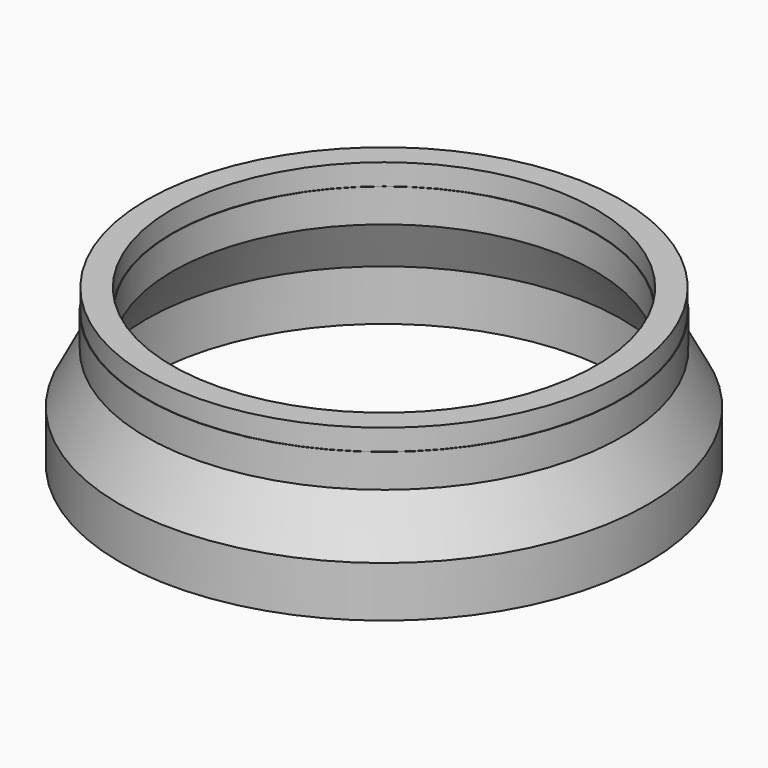
from build123d import *


with BuildPart() as f1:
    # F0 (on Front) → F1 (revolve)
    with BuildSketch(Plane.XZ):
        Polygon((-451, -258.865593), (-450, -258.865593), (-450, -162.865593), (-400, -66.865593), (-400, -3.865593), (-401, -3.865593), (-401, 36.134407), (-449, 36.134407), (-449, -3.865593), (-450, -3.865593), (-450, -66.865593), (-500, -162.865593), (-500, -258.865593), (-499, -258.865593), (-499, -218.865593), (-451, -218.865593), align=None)
    revolve(axis=Axis((0, 0, -0.829662), (0, 0, -1)))


solid = f1.part
